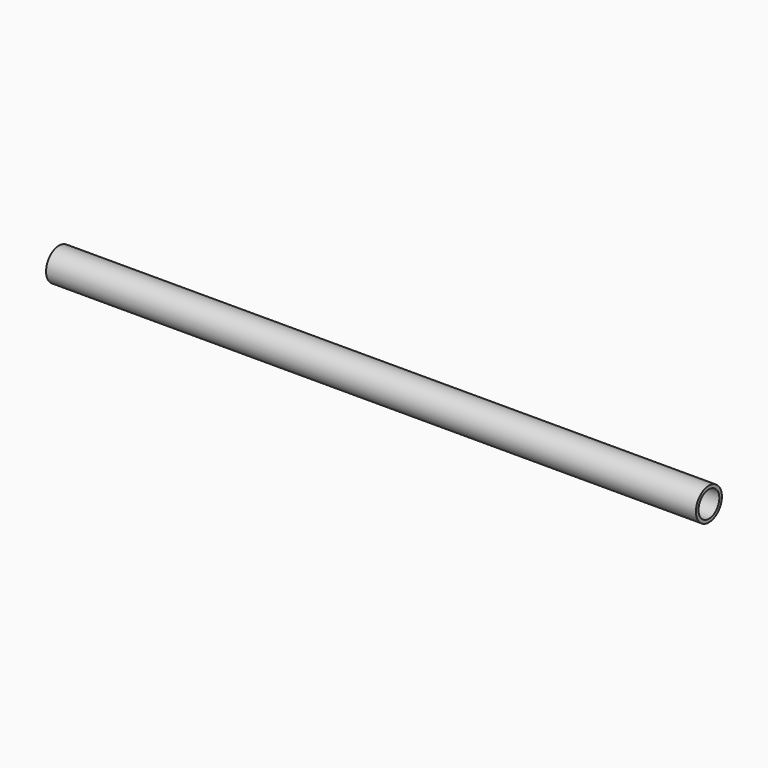
from build123d import *

# Parameters (mm, degrees)
F0_R     = 0.625
F1_DEPTH = 25
F3_D     = 1


with BuildPart() as f1:
    # F0 (on Right) → F1 (new body)
    with BuildSketch(Plane.YZ):
        Circle(F0_R)
    extrude(amount=F1_DEPTH)

    # F3 (through all)
    with Locations(Plane.YZ.offset(25)):
        with Locations((0, 0)):
            Hole(F3_D / 2)


solid = f1.part
